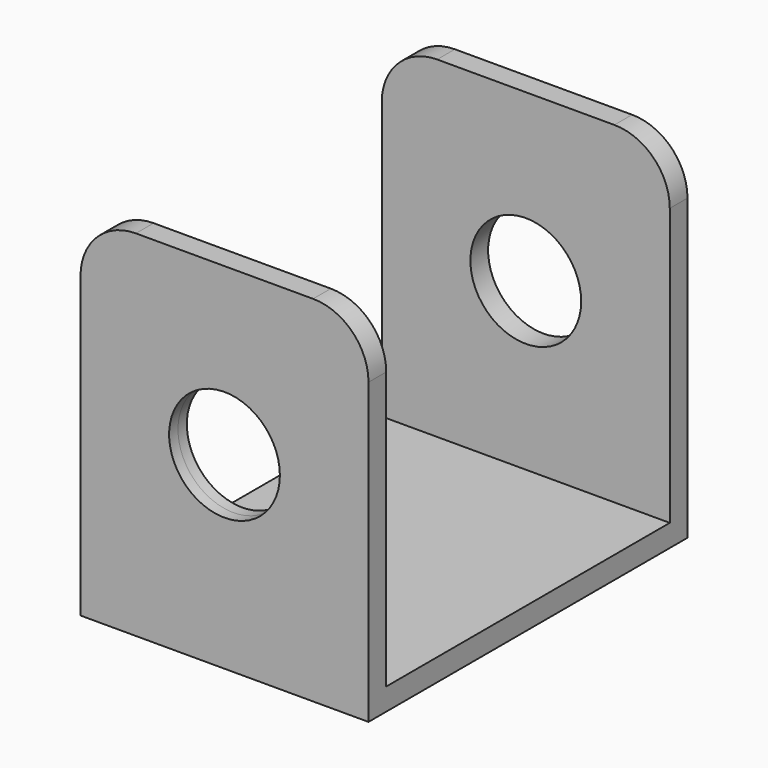
from build123d import *

# Parameters (mm, degrees)
F0_W     = 2
F0_H     = 30
F1_DEPTH = 26
F2_R     = 5
F3_DEPTH = 40.2
F4_R     = 5
F5_DEPTH = 23
F6_R     = 5


with BuildPart() as f1:
    # F0 (on Right) → F1 (new body)
    with BuildSketch(Plane.YZ):
        Rectangle(F0_W, F0_H)
        Polygon((1, -15), (-1, -15), (-1, -17), (35, -17), (35, -15), (33, -15), align=None)
        with Locations((34, 0)):
            Rectangle(F0_W, F0_H)
    extrude(amount=F1_DEPTH)

    # F2 (on Front) → F3 (cut)
    with BuildSketch(Plane.XZ):
        with Locations((13, 0)):
            Circle(F2_R)
    extrude(amount=-F3_DEPTH, mode=Mode.SUBTRACT)

    # F4 (on Front) → F5 (cut)
    with BuildSketch(Plane.XZ):
        with Locations((13, 0)):
            Circle(F4_R)
    extrude(amount=F5_DEPTH, mode=Mode.SUBTRACT)

    # F6
    f6_edges = [f1.edges().sort_by_distance(p)[0] for p in [
        (26, 0, 15),
        (26, 34, 15),
        (0, 0, 15),
        (0, 34, 15),
    ]]
    fillet(f6_edges, radius=F6_R)


solid = f1.part
